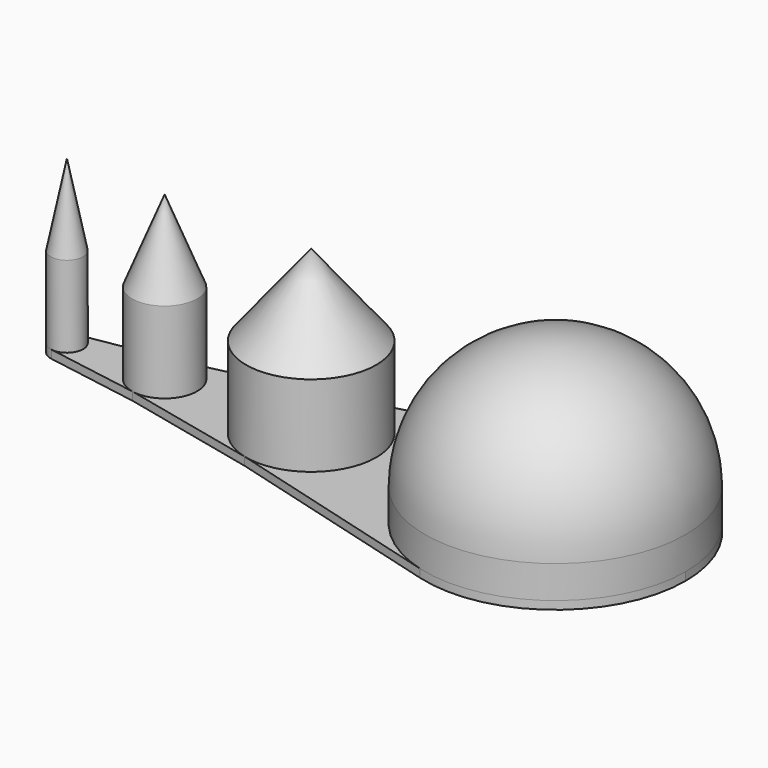
from build123d import *

# Parameters (mm, degrees)
F1_DEPTH = 0.5
F2_R     = 2
F2_R_2   = 1
F2_R_3   = 4
F2_R_4   = 8
F3_DEPTH = 10
F4_SIZE2 = 5
F4_SIZE  = 1
F5_R     = 8
F6_SIZE2 = 5
F6_SIZE  = 2
F7_SIZE2 = 5
F7_SIZE  = 4


with BuildPart() as f1:
    # F0 (on Top) → F1 (new body)
    with BuildSketch(Plane.XY):
        with BuildLine():
            ThreePointArc((28.6830315128, -7.7103105572), (35.6606054127, -6.366579406), (38.8163648461, 0))
            ThreePointArc((38.8163648461, 0), (35.6606054127, 6.366579406), (28.6830315128, 7.7103105572))
            ThreePointArc((28.6830315128, 7.7103105572), (22.8163648461, 0), (28.6830315128, -7.7103105572))
        make_face()
        with BuildLine():
            ThreePointArc((28.6830315128, -7.7103105572), (22.8163648461, 0), (28.6830315128, 7.7103105572))
            Line((28.6830315128, 7.7103105572), (14.8380732426, 3.8796074024))
            Line((14.8380732426, 3.8796074024), (6.4271638375, 1.9625832337))
            Line((6.4271638375, 1.9625832337), (0.6496981795, 0.9860132972))
            ThreePointArc((0.6496981795, 0.9860132972), (1.4618620705, 0.7637626158), (1.8163648461, 0))
            ThreePointArc((1.8163648461, 0), (1.4618620705, -0.7637626158), (0.6496981795, -0.9860132972))
            Line((0.6496981795, -0.9860132972), (6.4271638375, -1.9625832337))
            Line((6.4271638375, -1.9625832337), (14.8380732426, -3.8796074024))
            Line((14.8380732426, -3.8796074024), (28.6830315128, -7.7103105572))
        make_face()
        with BuildLine():
            ThreePointArc((1.8163648461, 0), (1.4618620705, 0.7637626158), (0.6496981795, 0.9860132972))
            ThreePointArc((0.6496981795, 0.9860132972), (-0.1836351539, 0), (0.6496981795, -0.9860132972))
            ThreePointArc((0.6496981795, -0.9860132972), (1.4618620705, -0.7637626158), (1.8163648461, 0))
        make_face()
    extrude(amount=F1_DEPTH)

    # F2 (on face) → F3 (join)
    with BuildSketch(Plane.XY.offset(0.5)):
        with Locations((6.8163648461, 0)):
            Circle(F2_R)
        with Locations((0.8163648461, 0)):
            Circle(F2_R_2)
        with Locations((15.8163648461, 0)):
            Circle(F2_R_3)
        with Locations((30.8163648461, 0)):
            Circle(F2_R_4)
    extrude(amount=F3_DEPTH)

    # F4
    f4_edges = [f1.edges().sort_by_distance(p)[0] for p in [
        (-0.183635, 0, 10.5),
    ]]
    f4_side = f1.faces().sort_by_distance((0.816365, 0, 10.5))[0]
    chamfer(f4_edges, length=F4_SIZE, length2=F4_SIZE2, reference=f4_side)

    # F5
    f5_edges = [f1.edges().sort_by_distance(p)[0] for p in [
        (22.816365, 0, 10.5),
    ]]
    fillet(f5_edges, radius=F5_R)

    # F6
    f6_edges = [f1.edges().sort_by_distance(p)[0] for p in [
        (4.816365, 0, 10.5),
    ]]
    f6_side = f1.faces().sort_by_distance((6.816365, 0, 10.5))[0]
    chamfer(f6_edges, length=F6_SIZE, length2=F6_SIZE2, reference=f6_side)

    # F7
    f7_edges = [f1.edges().sort_by_distance(p)[0] for p in [
        (11.816365, 0, 10.5),
    ]]
    f7_side = f1.faces().sort_by_distance((15.816365, 0, 10.5))[0]
    chamfer(f7_edges, length=F7_SIZE, length2=F7_SIZE2, reference=f7_side)


solid = f1.part
